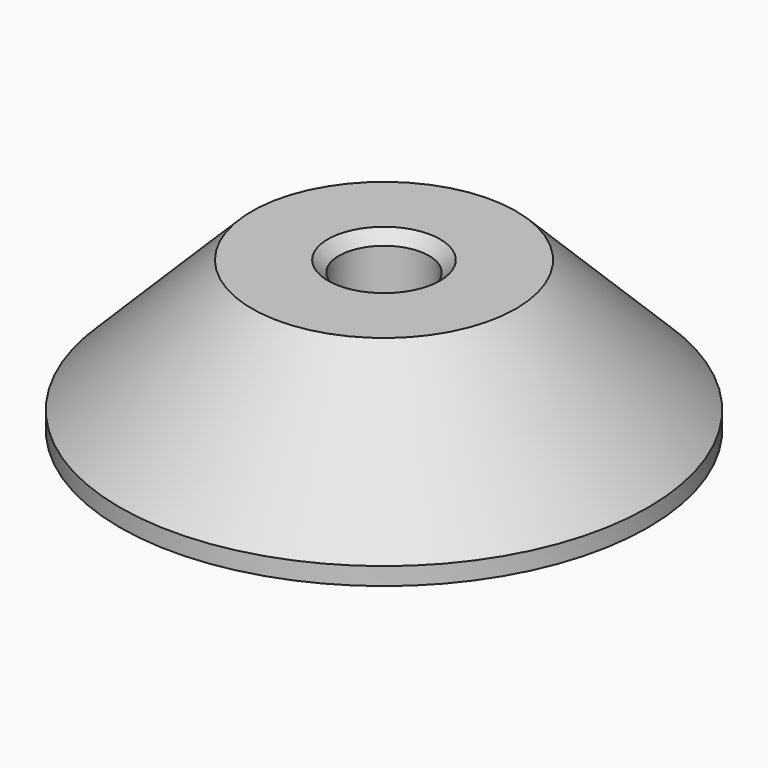
from build123d import *

# Parameters (mm, degrees)
F0_R     = 12
F0_R_2   = 2.05
F1_DEPTH = 6.8
F2_DEPTH = 0.5
F3_SIZE  = 0.5
F4_SIZE  = 6


with BuildPart() as f1:
    # F0 (on Top) → F1 (new body)
    with BuildSketch(Plane.XY):
        Circle(F0_R)
        Circle(F0_R_2, mode=Mode.SUBTRACT)
    extrude(amount=F1_DEPTH)

    # F0 (on Top) → F2 (join)
    with BuildSketch(Plane.XY):
        Circle(F0_R_2)
    extrude(amount=F2_DEPTH)

    # F3
    f3_edges = [f1.edges().sort_by_distance(p)[0] for p in [
        (-2.05, 0, 6.8),
    ]]
    chamfer(f3_edges, length=F3_SIZE)

    # F4
    f4_edges = [f1.edges().sort_by_distance(p)[0] for p in [
        (-12, 0, 6.8),
    ]]
    chamfer(f4_edges, length=F4_SIZE)


solid = f1.part
